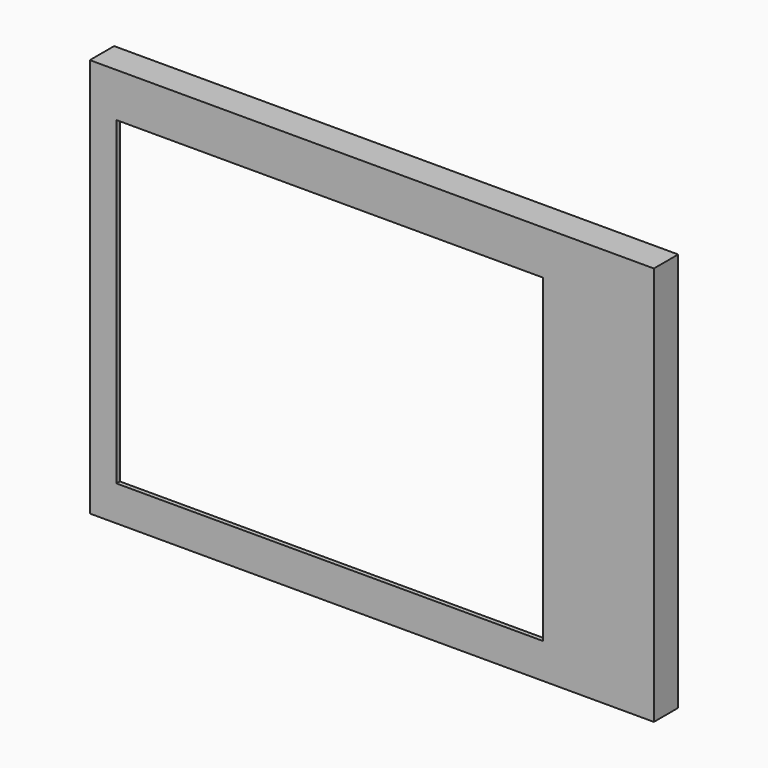
from build123d import *

# Parameters (mm, degrees)
F0_W     = 260
F0_H     = 184
F0_W_2   = 256
F0_H_2   = 180
F1_DEPTH = 14
F0_W_3   = 208.88
F0_H_3   = 167.12
F2_DEPTH = 4
F0_W_4   = 196.608
F0_H_4   = 147.456
F3_DEPTH = 2


with BuildPart() as f1:
    # F0 (on Front) → F1 (new body)
    with BuildSketch(Plane.XZ):
        with Locations((19.391128, 2.061408)):
            Rectangle(F0_W, F0_H)
        with Locations((19.391128, 2.061408)):
            Rectangle(F0_W_2, F0_H_2, mode=Mode.SUBTRACT)
    extrude(amount=-F1_DEPTH)

    # F0 (on Front) → F2 (join)
    with BuildSketch(Plane.XZ):
        with Locations((19.391128, 2.061408)):
            Rectangle(F0_W_2, F0_H_2)
        Rectangle(F0_W_3, F0_H_3, mode=Mode.SUBTRACT)
    extrude(amount=-F2_DEPTH)

    # F0 (on Front) → F3 (join)
    with BuildSketch(Plane.XZ):
        Rectangle(F0_W_3, F0_H_3)
        Rectangle(F0_W_4, F0_H_4, mode=Mode.SUBTRACT)
    extrude(amount=-F3_DEPTH)


solid = f1.part
